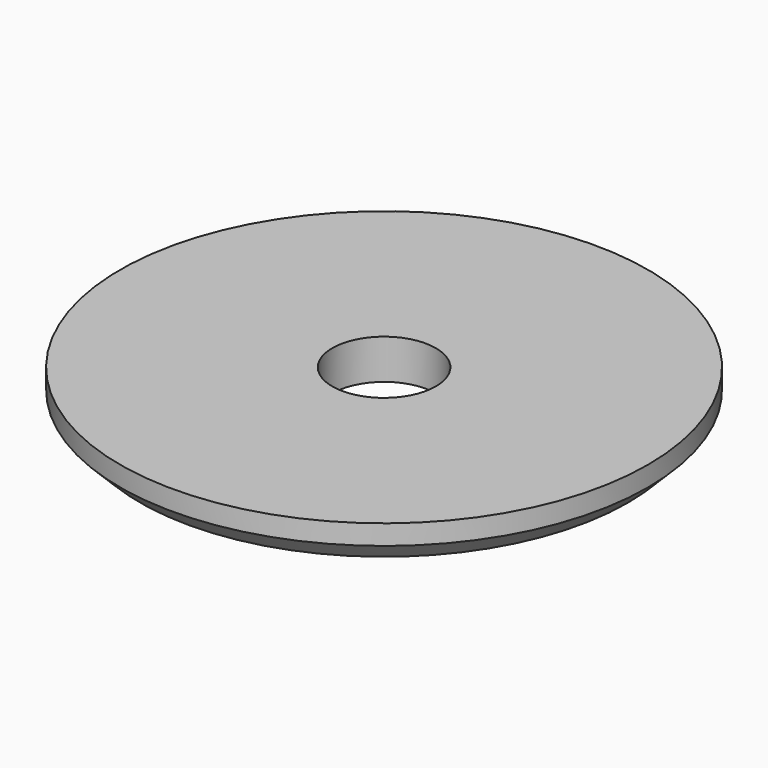
from build123d import *

# Parameters (mm, degrees)
CYLINDER1794_R     = 2.6
CYLINDER1794_DEPTH = 33
CYLINDER1793_R     = 13.25
CYLINDER1793_DEPTH = 2
CHAMFER095_SIZE    = 1


with BuildPart() as obj1:
    # Cylinder1794 → Cylinder1794 (new body)
    with BuildSketch(Plane.XY.offset(42)):
        Circle(CYLINDER1794_R)
    extrude(amount=CYLINDER1794_DEPTH)


with BuildPart() as chamfer095:
    # Cylinder1793 → Cylinder1793 (new body)
    with BuildSketch(Plane.XY.offset(46.65)):
        Circle(CYLINDER1793_R)
    extrude(amount=CYLINDER1793_DEPTH)

    # Cut664: cut obj1
    add(obj1.part, mode=Mode.SUBTRACT)

    # Chamfer095
    chamfer095_edges = [chamfer095.edges().sort_by_distance(p)[0] for p in [
        (-13.25, 0, 46.65),
    ]]
    chamfer(chamfer095_edges, length=CHAMFER095_SIZE)


solid = chamfer095.part
